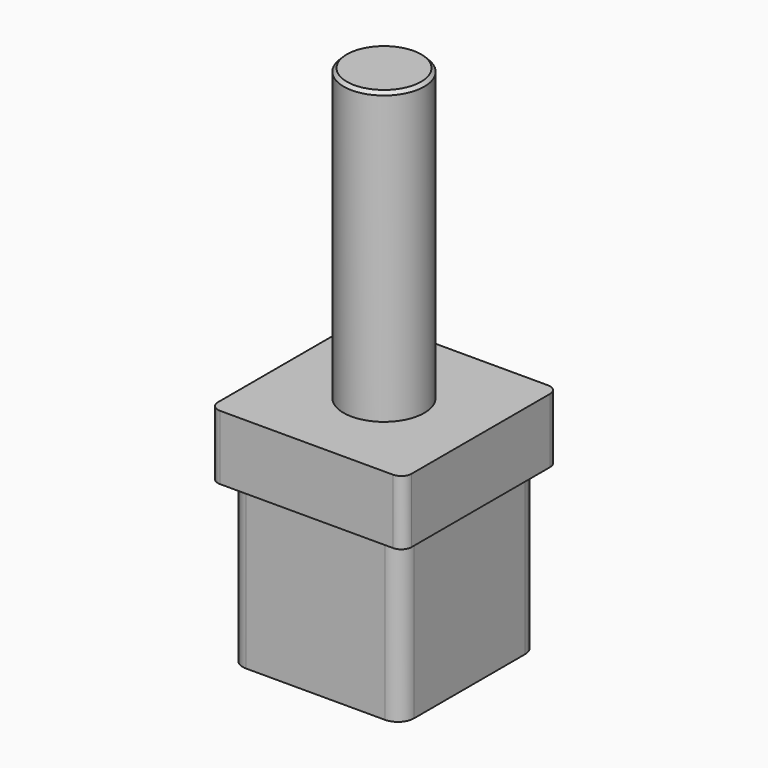
from build123d import *

# Parameters (mm, degrees)
F1_DEPTH = 70
F2_W     = 53
F2_H     = 53
F3_DEPTH = 50
F4_R     = 5
F5_R     = 12.5
F6_DEPTH = 90
F7_SIZE  = 1


with BuildPart() as f1:
    # F0 (on Top) → F1 (new body)
    with BuildSketch(Plane.XY):
        with BuildLine():
            ThreePointArc((-60, 3.2), (-59.062742, 0.937258), (-56.8, 0))
            Line((-56.8, 0), (-3.2, 0))
            ThreePointArc((-3.2, 0), (-0.937258, 0.937258), (0, 3.2))
            Line((0, 3.2), (0, 56.8))
            ThreePointArc((0, 56.8), (-0.937258, 59.062742), (-3.2, 60))
            Line((-3.2, 60), (-56.8, 60))
            ThreePointArc((-56.8, 60), (-59.062742, 59.062742), (-60, 56.8))
            Line((-60, 56.8), (-60, 3.2))
        make_face()
    extrude(amount=F1_DEPTH)

    # F2 (on face) → F3 (cut)
    with BuildSketch(Plane(origin=(0, 0, 0), x_dir=(1, 0, 0), z_dir=(0, 0, -1))):
        with BuildLine():
            Line((-3.2, 0), (-56.8, 0))
            ThreePointArc((-56.8, 0), (-59.062742, -0.937258), (-60, -3.2))
            Line((-60, -3.2), (-60, -56.8))
            ThreePointArc((-60, -56.8), (-59.062742, -59.062742), (-56.8, -60))
            Line((-56.8, -60), (-3.2, -60))
            ThreePointArc((-3.2, -60), (-0.937258, -59.062742), (0, -56.8))
            Line((0, -56.8), (0, -3.2))
            ThreePointArc((0, -3.2), (-0.937258, -0.937258), (-3.2, 0))
        make_face()
        with Locations((-30, -30)):
            Rectangle(F2_W, F2_H, mode=Mode.SUBTRACT)
    extrude(amount=-F3_DEPTH, mode=Mode.SUBTRACT)

    # F4
    f4_edges = [f1.edges().sort_by_distance(p)[0] for p in [
        (-56.5, 3.5, 25),
        (-3.5, 3.5, 25),
        (-3.5, 56.5, 25),
        (-56.5, 56.5, 25),
    ]]
    fillet(f4_edges, radius=F4_R)

    # F5 (on face) → F6 (join)
    with BuildSketch(Plane.XY.offset(70)):
        with Locations((-30, 30)):
            Circle(F5_R)
    extrude(amount=F6_DEPTH)

    # F7
    f7_edges = [f1.edges().sort_by_distance(p)[0] for p in [
        (-42.5, 30, 160),
    ]]
    chamfer(f7_edges, length=F7_SIZE)


solid = f1.part
